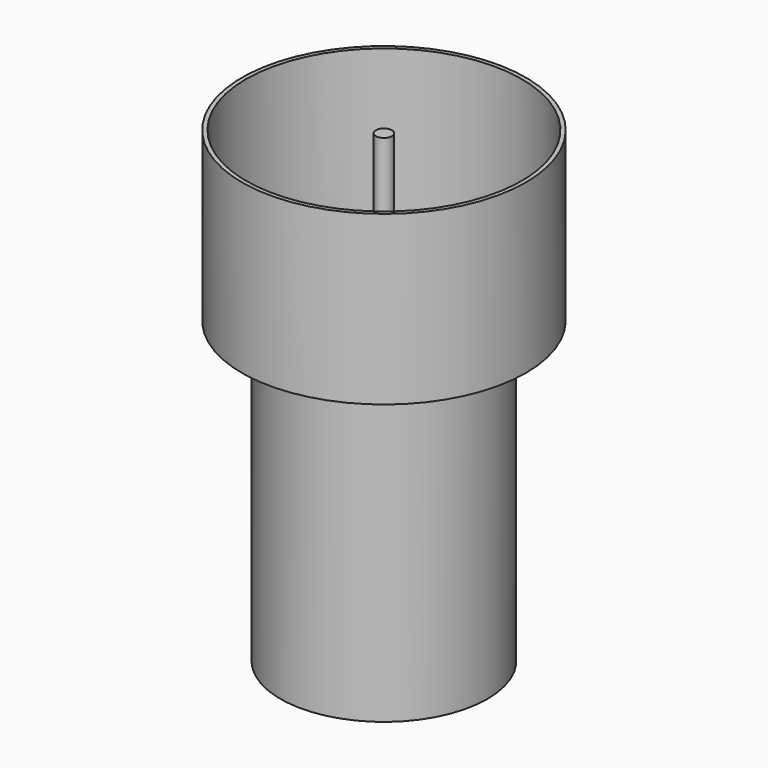
from build123d import *

# Parameters (mm, degrees)
F0_R     = 54.987438
F1_DEPTH = 65
F3_D     = 106.795
F4_R     = 3.1155
F5_DEPTH = 63.9
F6_R     = 40.076196
F7_DEPTH = 116


with BuildPart() as f1:
    # F0 (on Top) → F1 (new body)
    with BuildSketch(Plane.XY):
        Circle(F0_R)
    extrude(amount=F1_DEPTH)

    # F3 (through all)
    with Locations(Plane.XY.offset(65)):
        with Locations((0, 0)):
            Hole(F3_D / 2)


with BuildPart() as f5:
    # F4 (on Top) → F5 (new body)
    with BuildSketch(Plane.XY):
        Circle(F4_R)
    extrude(amount=F5_DEPTH)

    # F6 (on Top) → F7 (join)
    with BuildSketch(Plane.XY):
        Circle(F6_R)
    extrude(amount=-F7_DEPTH)


solid = Compound([f1.part, f5.part])
